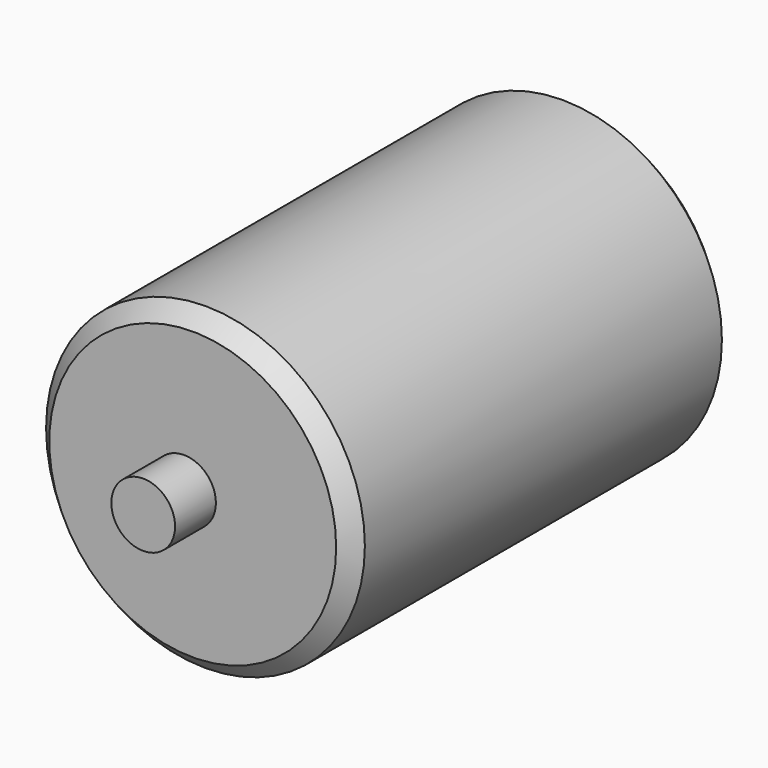
from build123d import *

# Parameters (mm, degrees)
F0_R     = 50
F1_DEPTH = 150
F2_SIZE  = 5
F3_SIZE  = 5
F4_R     = 10
F5_DEPTH = 16
F6_R     = 10
F7_DEPTH = 16


with BuildPart() as f1:
    # F0 (on Front) → F1 (new body)
    with BuildSketch(Plane.XZ):
        with Locations((2.734607, 0)):
            Circle(F0_R)
    extrude(amount=F1_DEPTH)

    # F2
    f2_edges = [f1.edges().sort_by_distance(p)[0] for p in [
        (-47.265393, -150, 0),
    ]]
    chamfer(f2_edges, length=F2_SIZE)

    # F3
    f3_edges = [f1.edges().sort_by_distance(p)[0] for p in [
        (-47.265393, 0, 0),
    ]]
    chamfer(f3_edges, length=F3_SIZE)

    # F4 (on face) → F5 (join)
    with BuildSketch(Plane.XZ.offset(150)):
        Circle(F4_R)
    extrude(amount=F5_DEPTH)

    # F6 (on face) → F7 (join)
    with BuildSketch(Plane(origin=(0, 0, 0), x_dir=(-1, 0, 0), z_dir=(0, 1, 0))):
        Circle(F6_R)
    extrude(amount=F7_DEPTH)


solid = f1.part
